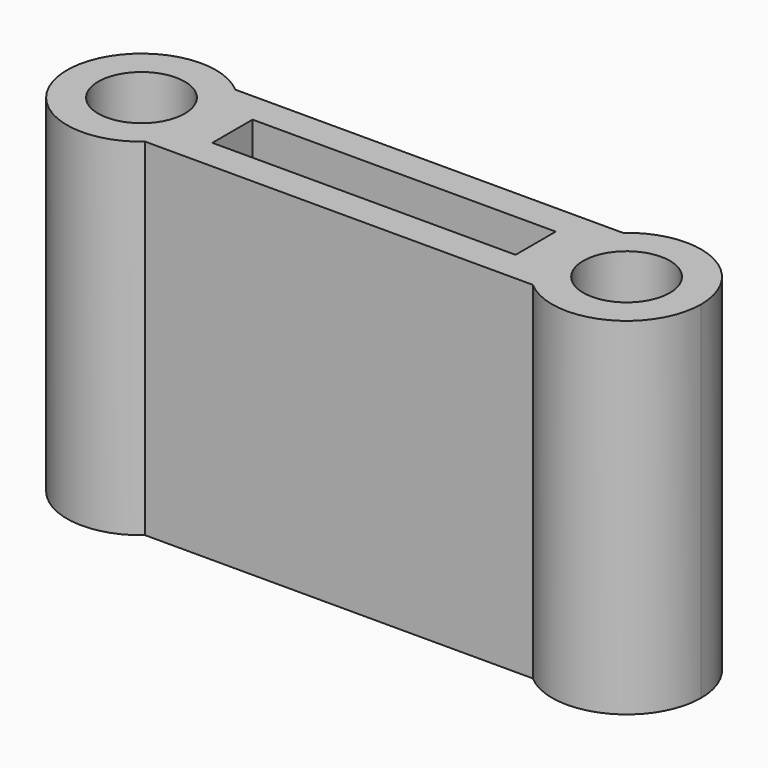
from build123d import *

# Parameters (mm, degrees)
F1_R     = 2.5
F1_W     = 17.5
F1_H     = 2.9
F2_DEPTH = 20


with BuildPart() as f2:
    # F1 (on Top) → F2 (new body)
    with BuildSketch(Plane.XY):
        with BuildLine():
            ThreePointArc((-11.1844183549, -3.25), (-10.0886702342, -1.7864768297), (-9.7, 0))
            ThreePointArc((-9.7, 0), (-10.0886702342, 1.7864768297), (-11.1844183549, 3.25))
            ThreePointArc((-11.1844183549, 3.25), (-18.3, 0), (-11.1844183549, -3.25))
        make_face()
        with Locations((-14, 0)):
            Circle(F1_R, mode=Mode.SUBTRACT)
        with BuildLine():
            ThreePointArc((-11.1844183549, 3.25), (-10.0886702342, 1.7864768297), (-9.7, 0))
            ThreePointArc((-9.7, 0), (-10.0886702342, -1.7864768297), (-11.1844183549, -3.25))
            Line((-11.1844183549, -3.25), (11.1844183549, -3.25))
            ThreePointArc((11.1844183549, -3.25), (9.7, 0), (11.1844183549, 3.25))
            Line((11.1844183549, 3.25), (-11.1844183549, 3.25))
        make_face()
        Rectangle(F1_W, F1_H, mode=Mode.SUBTRACT)
        with BuildLine():
            ThreePointArc((18.3, 0), (15.7864768297, 3.9113297658), (11.1844183549, 3.25))
            ThreePointArc((11.1844183549, 3.25), (9.7, 0), (11.1844183549, -3.25))
            ThreePointArc((11.1844183549, -3.25), (15.7864768297, -3.9113297658), (18.3, 0))
        make_face()
        with Locations((14, 0)):
            Circle(F1_R, mode=Mode.SUBTRACT)
    extrude(amount=F2_DEPTH)


solid = f2.part
